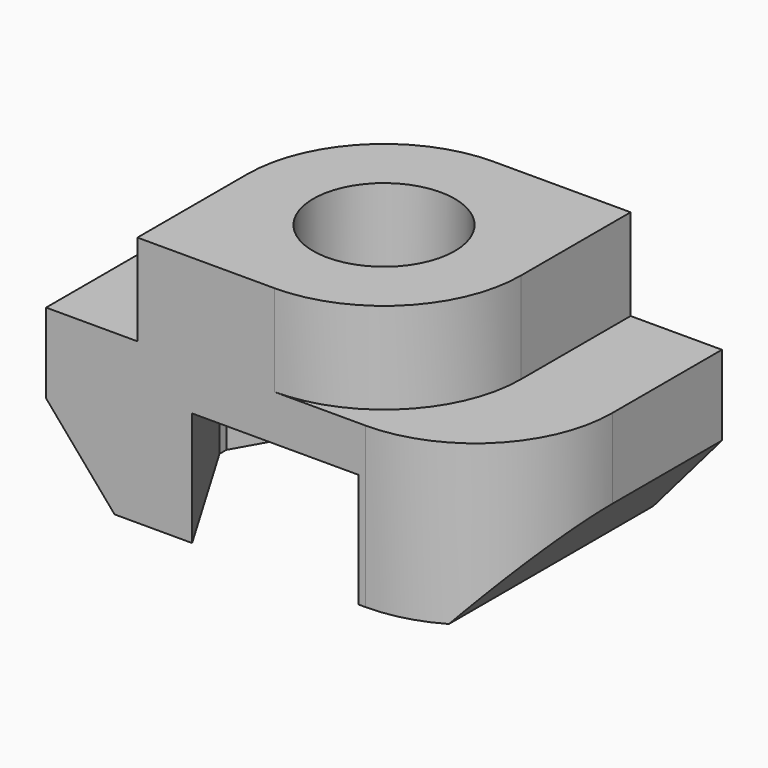
from build123d import *

# Parameters (mm, degrees)
F1_DEPTH  = 3.5
F3_DEPTH  = 2
F4_R      = 1.55
F5_DEPTH  = 25
F7_DEPTH  = 25
F9_DEPTH  = 25
F10_R     = 1.55
F11_DEPTH = 2.5


with BuildPart() as f1:
    # F0 (on Top) → F1 (new body)
    with BuildSketch(Plane.XY):
        with BuildLine():
            Line((-5, 0), (-5, -3))
            Line((-5, -3), (2, -3))
            ThreePointArc((2, -3), (4.1213203436, -2.1213203436), (5, 0))
            Line((5, 0), (5, 3))
            Line((5, 3), (-2, 3))
            ThreePointArc((-2, 3), (-4.1213203436, 2.1213203436), (-5, 0))
        make_face()
    extrude(amount=F1_DEPTH)

    # F2 (on face) → F3 (join)
    with BuildSketch(Plane.XY.offset(3.5)):
        with BuildLine():
            Line((3, 0), (3, 3))
            Line((3, 3), (0, 3))
            ThreePointArc((0, 3), (-2.1213203436, 2.1213203436), (-3, 0))
            Line((-3, 0), (-3, -3))
            Line((-3, -3), (0, -3))
            ThreePointArc((0, -3), (2.1213203436, -2.1213203436), (3, 0))
        make_face()
    extrude(amount=F3_DEPTH)

    # F4 (on face) → F5 (cut)
    with BuildSketch(Plane.XY.offset(5.5)):
        Circle(F4_R)
    extrude(amount=-F5_DEPTH, mode=Mode.SUBTRACT)

    # F6 (on face) → F7 (cut)
    with BuildSketch(Plane.XZ.offset(3)):
        Polygon((-3.5, 0), (-5, 1.75), (-5, 0), align=None)
    extrude(amount=-F7_DEPTH, mode=Mode.SUBTRACT)

    # F8 (on face) → F9 (cut)
    with BuildSketch(Plane(origin=(0, 3, 0), x_dir=(-1, 0, 0), z_dir=(0, 1, 0))):
        Polygon((-5, 0), (-3.5, 0), (-5, 1.75), align=None)
    extrude(amount=-F9_DEPTH, mode=Mode.SUBTRACT)

    # F10 (on face) → F11 (cut)
    with BuildSketch(Plane(origin=(0, 0, 0), x_dir=(1, 0, 0), z_dir=(0, 0, -1))):
        Polygon((1.8021214103, -3), (3.5, -0.128752487), (3.5, 0.0591513549), (1.8427445262, 3), (-1.8021214103, 3), (-3.5, 0.128752487), (-3.5, -0.0591513549), (-1.8427445262, -3), align=None)
        Circle(F10_R, mode=Mode.SUBTRACT)
    extrude(amount=-F11_DEPTH, mode=Mode.SUBTRACT)


solid = f1.part
